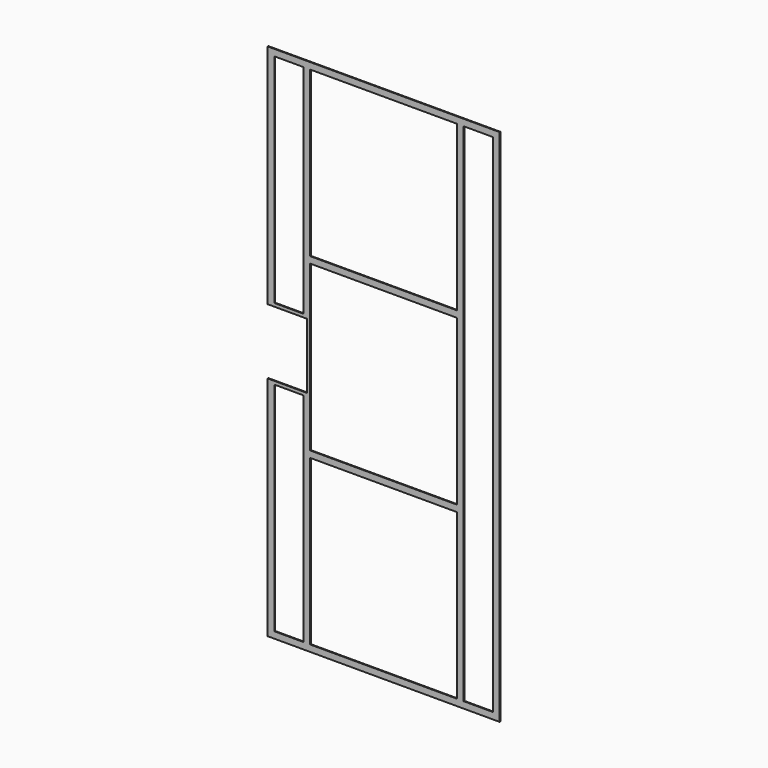
from build123d import *

# Parameters (mm, degrees)
F0_W     = 114.3
F0_H     = 844.55
F0_H_2   = 1968.5
F0_W_2   = 571.5
F0_H_3   = 25.4
F1_DEPTH = 3.175


with BuildPart() as f1:
    # F0 (on Front) → F1 (new body)
    with BuildSketch(Plane.XZ):
        Polygon((-901.7, 0), (0, 0), (0, 2019.3), (-901.7, 2019.3), (-901.7, 1136.65), (-749.3, 1136.65), (-749.3, 882.65), (-901.7, 882.65), align=None)
        with Locations((-819.15, 447.675)):
            Rectangle(F0_W, F0_H, mode=Mode.SUBTRACT)
        Polygon((-736.6, 1354.93125), (-736.6, 1993.9), (-165.1, 1993.9), (-165.1, 1354.93125), (-165.1, 1329.53125), (-165.1, 689.76875), (-165.1, 664.36875), (-165.1, 25.4), (-736.6, 25.4), (-736.6, 664.36875), (-736.6, 689.76875), (-736.6, 1329.53125), align=None, mode=Mode.SUBTRACT)
        with Locations((-819.15, 1571.625)):
            Rectangle(F0_W, F0_H, mode=Mode.SUBTRACT)
        with Locations((-82.55, 1009.65)):
            Rectangle(F0_W, F0_H_2, mode=Mode.SUBTRACT)
        with Locations((-450.85, 1342.23125)):
            Rectangle(F0_W_2, F0_H_3)
        with Locations((-450.85, 677.06875)):
            Rectangle(F0_W_2, F0_H_3)
    extrude(amount=F1_DEPTH)


solid = f1.part
